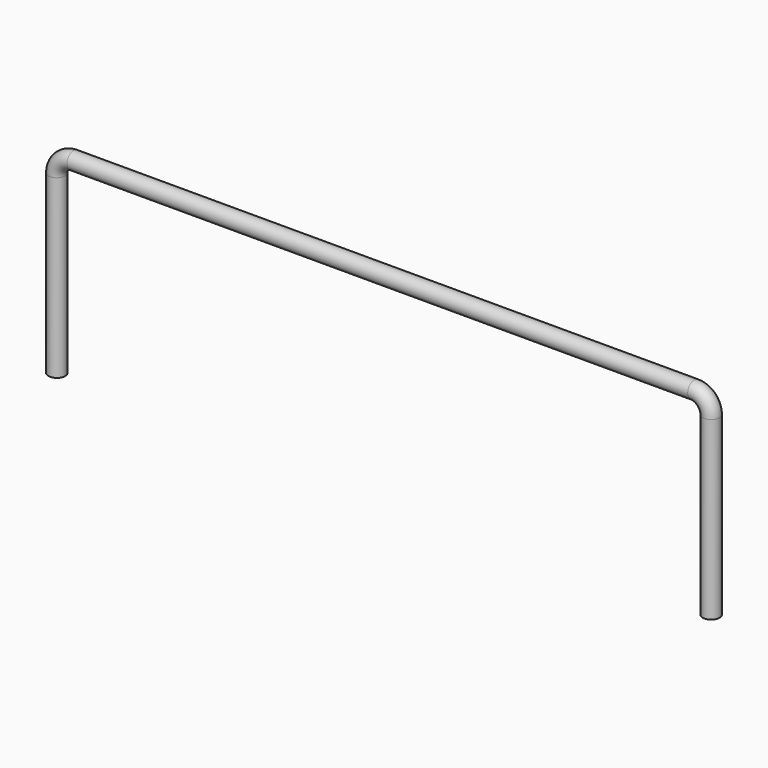
from build123d import *

# Parameters (mm, degrees)
F0_R = 1


with BuildPart() as f2:
    # F2: sweep along a path in F1
    with BuildLine(Plane.XZ) as f2_path:
        Line((-39, 0), (-39, 21))
        ThreePointArc((-39, 21), (-38.414214, 22.414214), (-37, 23))
        Line((-37, 23), (0, 23))
        Line((0, 23), (37, 23))
        ThreePointArc((37, 23), (38.414214, 22.414214), (39, 21))
        Line((39, 21), (39, 0))
    # F0 (on Top) → F2 (sweep)
    with BuildSketch(Plane.XY):
        with Locations((-39, 0)):
            Circle(F0_R)
    sweep(path=f2_path.line)


solid = f2.part
